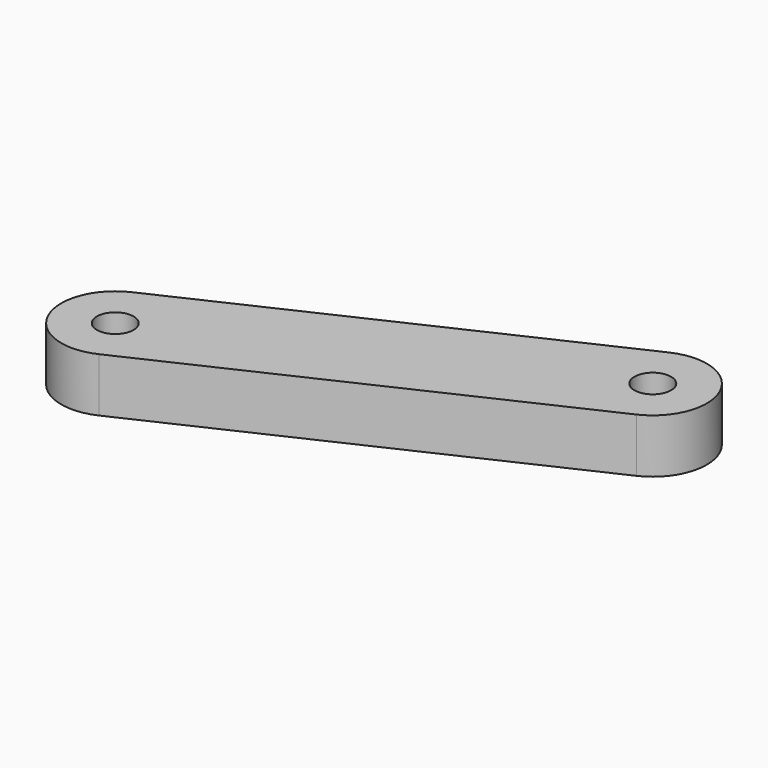
from build123d import *

# Parameters (mm, degrees)
F0_R     = 1.7
F1_DEPTH = 5
F2_ANGLE = -65


with BuildPart() as f1:
    # F0 (on Top) → F1 (new body)
    with BuildSketch(Plane.XY):
        with BuildLine():
            ThreePointArc((5, 17.142857), (0, 22.142857), (-5, 17.142857))
            Line((-5, 17.142857), (-5, -22.857143))
            ThreePointArc((-5, -22.857143), (0, -27.857143), (5, -22.857143))
            Line((5, -22.857143), (5, 17.142857))
        make_face()
        with Locations((0, -22.857143)):
            Circle(F0_R, mode=Mode.SUBTRACT)
        with Locations((0, 17.142857)):
            Circle(F0_R, mode=Mode.SUBTRACT)
    extrude(amount=F1_DEPTH)


with BuildPart() as f1_1:
    # F2: moved
    add(f1.part.rotate(Axis((0, 17.142857, 5), (0, 0, 1)), F2_ANGLE))


solid = f1_1.part
